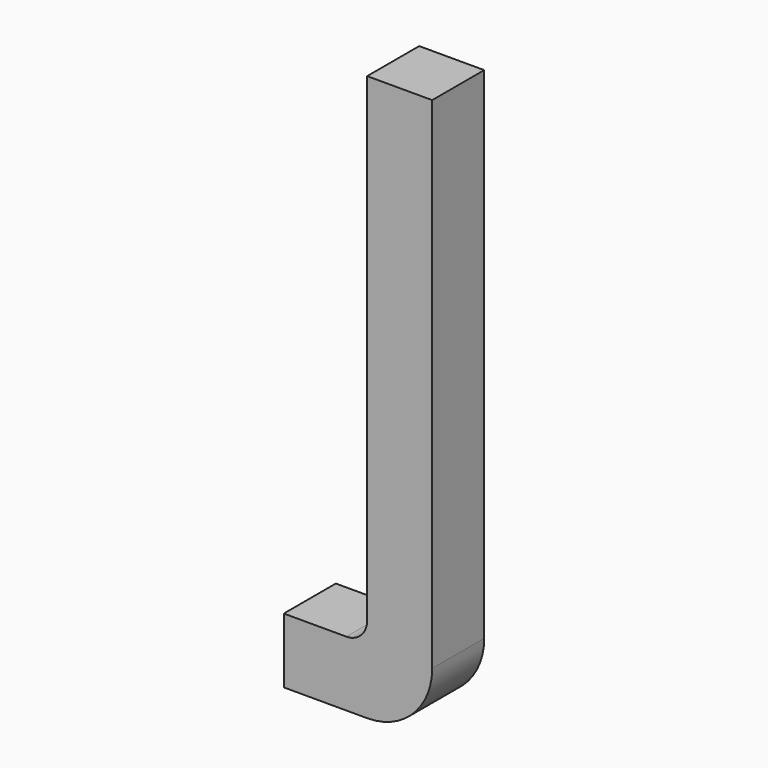
from build123d import *

# Parameters (mm, degrees)
F1_DEPTH = 19.812


with BuildPart() as f1:
    # F0 (on Front) → F1 (new body)
    with BuildSketch(Plane.XZ):
        with BuildLine():
            Line((-16.512466, 115.568313), (-36.324466, 115.568313))
            Line((-36.324466, 115.568313), (-36.324466, -30.481687))
            ThreePointArc((-36.324466, -30.481687), (-38.184338, -34.971815), (-42.674466, -36.831687))
            Line((-42.674466, -36.831687), (-61.724466, -36.831687))
            Line((-61.724466, -36.831687), (-61.724466, -56.643687))
            Line((-61.724466, -56.643687), (-36.324466, -56.643687))
            ThreePointArc((-36.324466, -56.643687), (-22.315267, -50.840887), (-16.512466, -36.831687))
            Line((-16.512466, -36.831687), (-16.512466, 115.568313))
        make_face()
    extrude(amount=F1_DEPTH)


solid = f1.part
